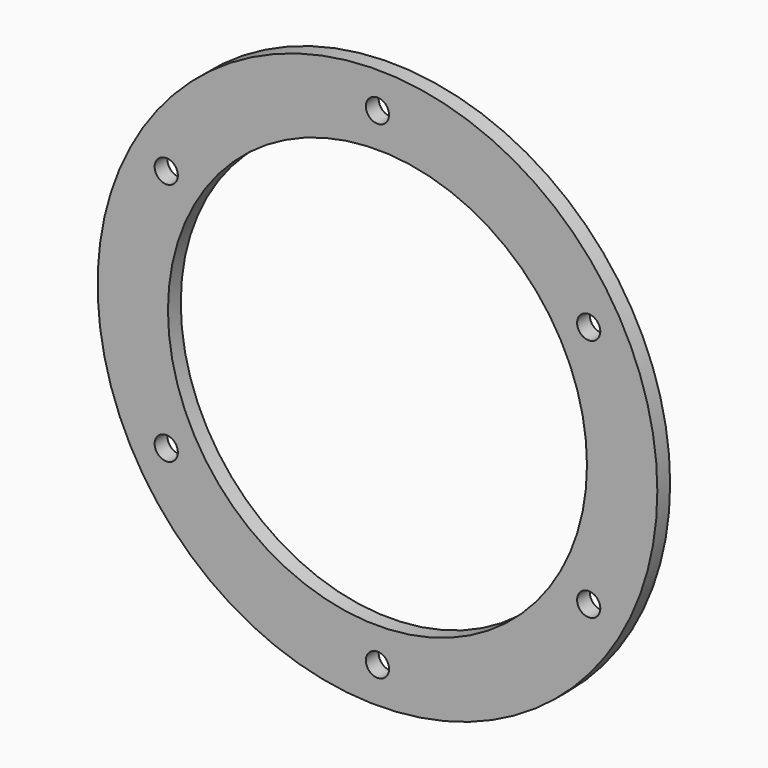
from build123d import *

# Parameters (mm, degrees)
F0_R     = 175
F0_R_2   = 131
F1_DEPTH = 10
F3_D     = 14.5


with BuildPart() as f1:
    # F0 (on Front) → F1 (new body)
    with BuildSketch(Plane.XZ):
        Circle(F0_R)
        Circle(F0_R_2, mode=Mode.SUBTRACT)
    extrude(amount=F1_DEPTH)

    # F3 (through all)
    with Locations(Plane.XZ.offset(10)):
        with Locations((0, 152.5), (-132.0688740771, 76.25), (-132.0688740771, -76.25), (0, -152.5), (132.0688740771, -76.25), (132.0688740771, 76.25)):
            Hole(F3_D / 2)


solid = f1.part
